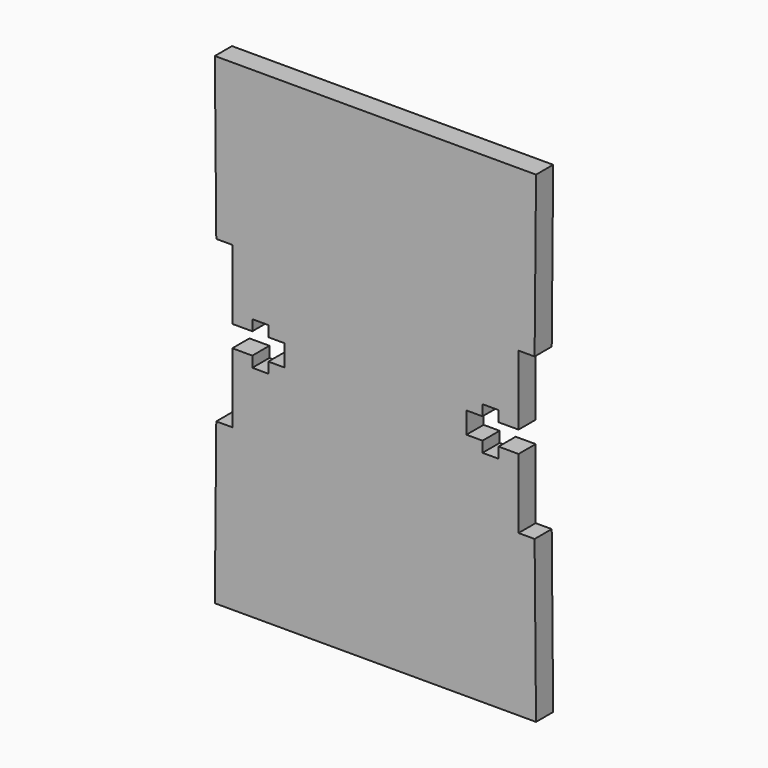
from build123d import *

# Parameters (mm, degrees)
F1_DEPTH = 4


with BuildPart() as f1:
    # F0 (on Front) → F1 (new body)
    with BuildSketch(Plane.XZ):
        Polygon((29.731113, 15), (30, 45), (0, 45), (0, -45), (30, -45), (29.731113, -15), (26.731113, -15), (26.731113, -2), (23, -2), (23, -4), (20, -4), (20, -2), (17, -2), (17, 0), (17, 2), (20, 2), (20, 4), (23, 4), (23, 2), (26.731113, 2), (26.731113, 15), align=None)
        Polygon((0, -45), (0, 45), (-30, 45), (-29.731113, 15), (-26.731113, 15), (-26.731113, 2), (-23, 2), (-23, 4), (-20, 4), (-20, 2), (-17, 2), (-17, 0), (-17, -2), (-20, -2), (-20, -4), (-23, -4), (-23, -2), (-26.731113, -2), (-26.731113, -15), (-29.731113, -15), (-30, -45), align=None)
    extrude(amount=F1_DEPTH)


solid = f1.part
